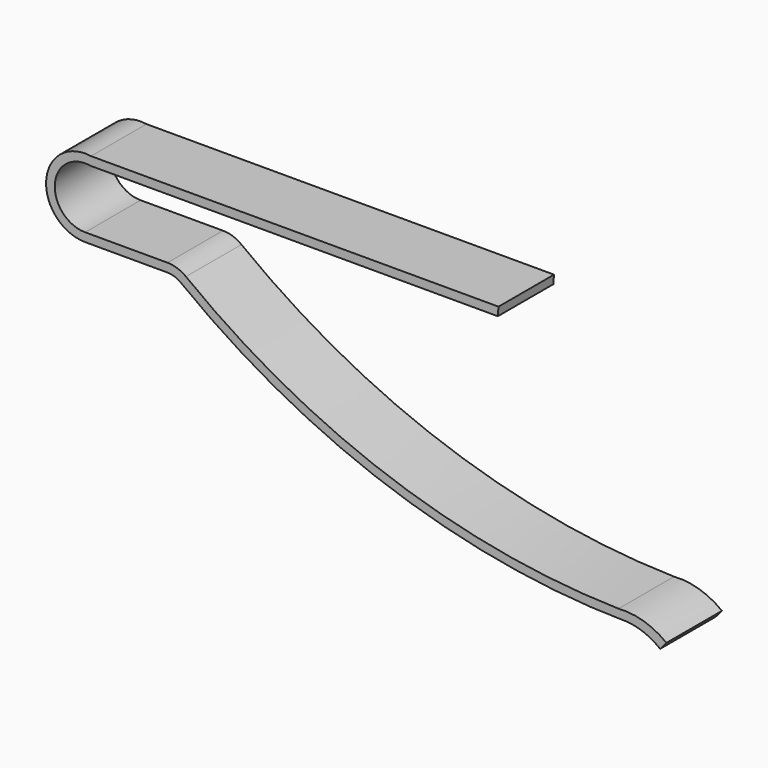
from build123d import *

# Parameters (mm, degrees)
F1_DEPTH = 16


with BuildPart() as f1:
    # F0 (on Front) → F1 (new body)
    with BuildSketch(Plane.XZ):
        with BuildLine():
            Line((95.341194, 8.899506), (1.341194, 8.899506))
            ThreePointArc((1.341194, 8.899506), (-8.974841, 0.672477), (0, -9))
            Line((0, -9), (19, -9))
            ThreePointArc((19, -9), (20.604423, -9.264409), (22.039157, -10.02967))
            ThreePointArc((22.039157, -10.02967), (70.763703, -36.139738), (125.254312, -45.445144))
            ThreePointArc((125.254312, -45.445144), (129.154135, -46.415554), (132.617611, -48.45385))
            Line((132.617611, -48.45385), (134.065223, -46.76863))
            ThreePointArc((134.065223, -46.76863), (128.853194, -44.058853), (123.014468, -43.412776))
            ThreePointArc((123.014468, -43.412776), (70.347282, -33.878442), (23.25482, -8.441537))
            ThreePointArc((23.25482, -8.441537), (21.246192, -7.370172), (19, -7))
            Line((19, -7), (0, -7))
            ThreePointArc((0, -7), (-6.974831, 0.593069), (1.181873, 6.899506))
            Line((1.181873, 6.899506), (95.181873, 6.899506))
            Line((95.181873, 6.899506), (95.341194, 8.899506))
        make_face()
    extrude(amount=F1_DEPTH)


solid = f1.part
